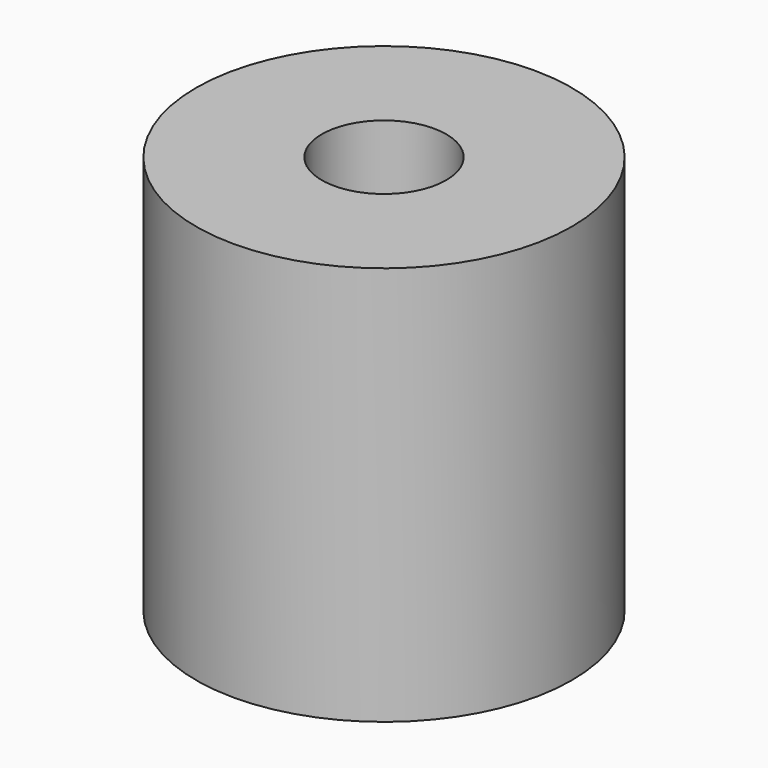
from build123d import *

# Parameters (mm, degrees)
CYLINDER670_R     = 2.65
CYLINDER670_DEPTH = 40
CYLINDER669_R     = 8
CYLINDER669_DEPTH = 17


with BuildPart() as obj1:
    # Cylinder670 → Cylinder670 (new body)
    with BuildSketch(Plane(origin=(0, 83, 232), x_dir=(1, 0, 0), z_dir=(0, 0, 1))):
        Circle(CYLINDER670_R)
    extrude(amount=CYLINDER670_DEPTH)


with BuildPart() as cut268:
    # Cylinder669 → Cylinder669 (new body)
    with BuildSketch(Plane(origin=(0, 83, 252), x_dir=(1, 0, 0), z_dir=(0, 0, 1))):
        Circle(CYLINDER669_R)
    extrude(amount=CYLINDER669_DEPTH)

    # Cut268: cut obj1
    add(obj1.part, mode=Mode.SUBTRACT)


solid = cut268.part
